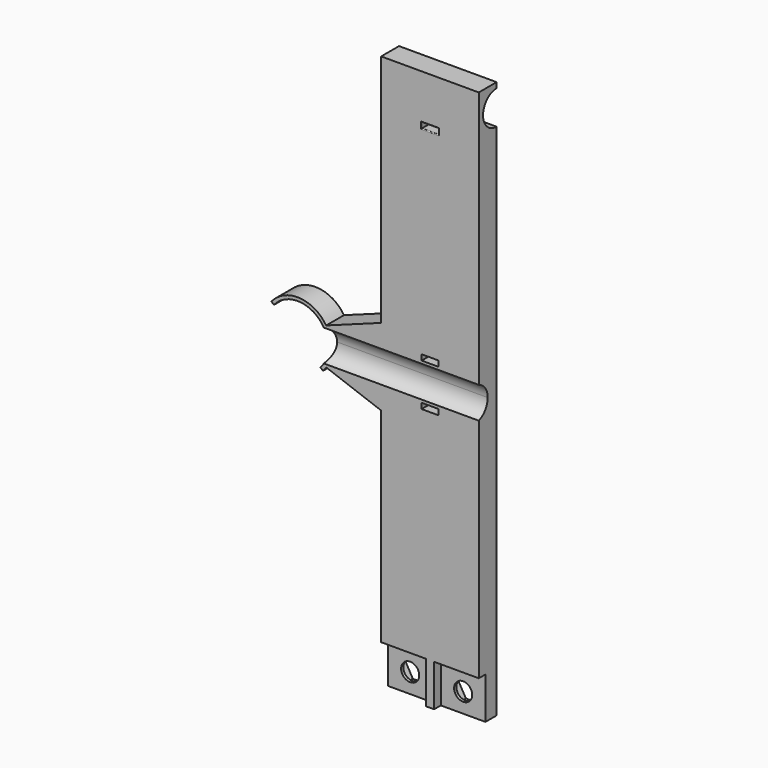
from build123d import *

# Parameters (mm, degrees)
F0_W      = 35
F0_H      = 200
F1_DEPTH  = 8
F2_R      = 6.075
F3_DEPTH  = 45
F4_W      = 6
F4_H      = 2
F6_DEPTH  = 25
F7_R      = 0.3
F8_R      = 3.25
F9_DEPTH  = 25
F10_R     = 3.25
F11_DEPTH = 4
F12_R     = 3.25
F13_DEPTH = 3
F14_W     = 3
F14_H     = 15
F15_DEPTH = 3
F18_DEPTH = 8
F20_DEPTH = 65
F21_W     = 6
F21_H     = 2
F22_DEPTH = 25
F23_R     = 4


with BuildPart() as f1:
    # F0 (on Front) → F1 (new body)
    with BuildSketch(Plane.XZ):
        with Locations((4.1207429767, 45.2379755676)):
            Rectangle(F0_W, F0_H)
    extrude(amount=F1_DEPTH)

    # F2 (on face) → F3 (cut)
    with BuildSketch(Plane(origin=(-13.3792570233, 0, 0), x_dir=(0, -1, 0), z_dir=(-1, 0, 0))):
        with Locations((0, 137.2379755676)):
            Circle(F2_R)
    extrude(amount=-F3_DEPTH, mode=Mode.SUBTRACT)

    # F4 (on face) → F6 (cut)
    with BuildSketch(Plane(origin=(0, 0, 0), x_dir=(-1, 0, 0), z_dir=(0, 1, 0))):
        with Locations((-4.1207429767, 128.1629755676)):
            Rectangle(F4_W, F4_H)
    extrude(amount=-F6_DEPTH, mode=Mode.SUBTRACT)

    # F7
    f7_edges = [f1.edges().sort_by_distance(p)[0] for p in [
        (4.120743, -8, 129.162976),
        (4.120743, -8, 127.162976),
        (7.120743, -8, 128.162976),
        (1.120743, -8, 128.162976),
        (4.120743, 0, 129.162976),
        (7.120743, 0, 128.162976),
        (4.120743, 0, 127.162976),
        (1.120743, 0, 128.162976),
    ]]
    fillet(f7_edges, radius=F7_R)

    # F8 (on face) → F9 (cut)
    with BuildSketch(Plane.XZ.offset(8)):
        with Locations((-5.3792570233, -47.7620244324)):
            Circle(F8_R)
        with Locations((13.6207429767, -47.7620244324)):
            Circle(F8_R)
    extrude(amount=-F9_DEPTH, mode=Mode.SUBTRACT)

    # F10 (on face) → F11 (cut)
    with BuildSketch(Plane(origin=(0, 0, 0), x_dir=(-1, 0, 0), z_dir=(0, 1, 0))):
        Polygon((-10.593553136, -52.9423836544), (-7.6208253694, -47.7305807393), (-10.64801521, -42.5502215174), (-16.6479328173, -42.5816652105), (-19.6206605839, -47.7934681255), (-16.5934707433, -52.9738273475), align=None)
        with Locations((-13.6207429767, -47.7620244324)):
            Circle(F10_R, mode=Mode.SUBTRACT)
        Polygon((8.4202988823, -52.9342642192), (11.3790690026, -47.7145248219), (8.3380271436, -42.5422850352), (2.3382151643, -42.5897846457), (-0.620554956, -47.8095240429), (2.420486903, -52.9817638297), align=None)
        with Locations((5.3792570233, -47.7620244324)):
            Circle(F10_R, mode=Mode.SUBTRACT)
    extrude(amount=-F11_DEPTH, mode=Mode.SUBTRACT)

    # F12 (on face) → F13 (cut)
    with BuildSketch(Plane.XZ.offset(8)):
        Polygon((-13.3792570233, -40.5933335423), (-13.3792570233, -54.7620244324), (21.6207429767, -54.7620244324), (21.6207429767, -40.5933335423), (21.6207429767, -39.7620244324), (-13.3792570233, -39.7620244324), align=None)
        with Locations((-5.3792570233, -47.7620244324)):
            Circle(F12_R, mode=Mode.SUBTRACT)
        with Locations((13.6207429767, -47.7620244324)):
            Circle(F12_R, mode=Mode.SUBTRACT)
        Polygon((-13.3792570233, -40.5933335423), (-13.3792570233, -54.7620244324), (21.6207429767, -54.7620244324), (21.6207429767, -40.5933335423), (21.6207429767, -39.7620244324), (-13.3792570233, -39.7620244324), align=None)
    extrude(amount=-F13_DEPTH, mode=Mode.SUBTRACT)

    # F14 (on face) → F15 (join)
    with BuildSketch(Plane.XZ.offset(5)):
        with Locations((4.1207429767, -47.2620244324)):
            Rectangle(F14_W, F14_H)
    extrude(amount=F15_DEPTH)

    # F16 (on face) → F18 (join)
    with BuildSketch(Plane.XZ.offset(8)):
        with BuildLine():
            Line((-35.1568526326, 39.9309880875), (-34.2461589726, 39.1493094232))
            ThreePointArc((-34.2461589726, 39.1493094232), (-33.657494289, 39.8672680482), (-33.1251321385, 40.6279133253))
            Line((-33.1251321385, 40.6279133253), (-13.3792570233, 33.3985724449))
            Line((-13.3792570233, 33.3985724449), (-13.3792570233, 61.0773786902))
            Line((-13.3792570233, 61.0773786902), (-33.1251321385, 53.8480378099))
            ThreePointArc((-33.1251321385, 53.8480378099), (-42.6403240796, 59.4155770599), (-52.7588970229, 55.0394083513))
            Line((-52.7588970229, 55.0394083513), (-51.8482033629, 54.257729687))
            ThreePointArc((-51.8482033629, 54.257729687), (-36.2148256468, 55.5848865562), (-35.1568526326, 39.9309880875))
        make_face()
    extrude(amount=-F18_DEPTH)

    # F19 (on face) → F20 (cut)
    with BuildSketch(Plane.YZ.offset(21.6207429767)):
        with BuildLine():
            ThreePointArc((-8, 41.585023515), (-5.1010205144, 43.7777761493), (-4, 47.2418777645))
            ThreePointArc((-4, 47.2418777645), (-5.1010205144, 50.7059793796), (-8, 52.898732014))
            Line((-8, 52.898732014), (-8, 41.585023515))
        make_face()
    extrude(amount=-F20_DEPTH, mode=Mode.SUBTRACT)

    # F21 (on face) → F22 (cut)
    with BuildSketch(Plane.XZ.offset(8)):
        with Locations((4.1207429767, 39.585023515)):
            Rectangle(F21_W, F21_H)
        with Locations((4.1207429767, 54.898732014)):
            Rectangle(F21_W, F21_H)
    extrude(amount=-F22_DEPTH, mode=Mode.SUBTRACT)

    # F23
    f23_edges = [f1.edges().sort_by_distance(p)[0] for p in [
        (4.120743, 0, 40.585024),
        (4.120743, 0, 53.898732),
    ]]
    fillet(f23_edges, radius=F23_R)


solid = f1.part
